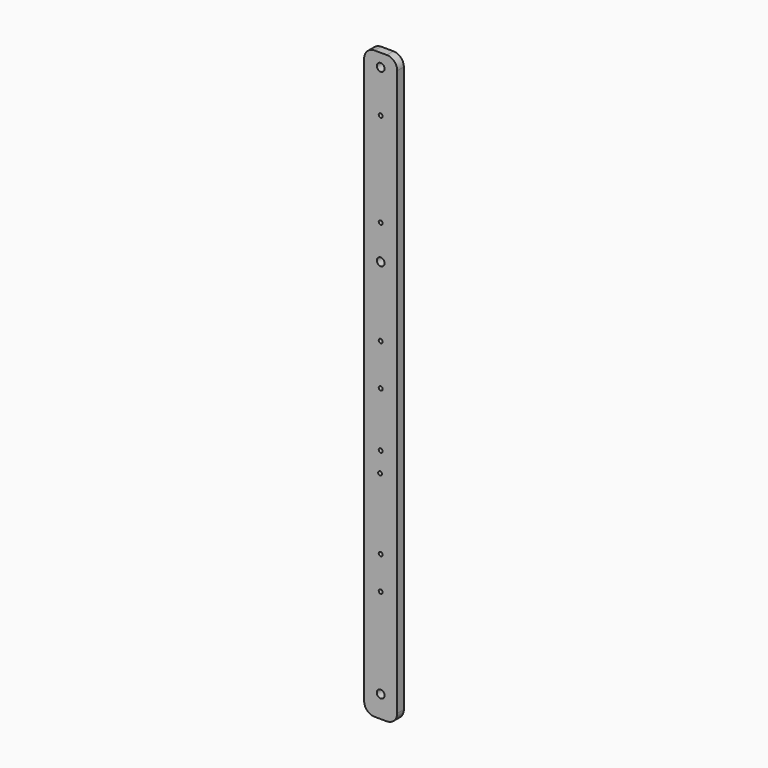
from build123d import *

# Parameters (mm, degrees)
F0_R     = 3
F0_R_2   = 1.5
F1_DEPTH = 6.35


with BuildPart() as f1:
    # F0 (on Front) → F1 (new body)
    with BuildSketch(Plane.XZ):
        with BuildLine():
            ThreePointArc((-12.7, -188.950539), (-10.352556, -194.61777), (-4.685325, -196.965214))
            Line((-4.685325, -196.965214), (4.685325, -196.965214))
            ThreePointArc((4.685325, -196.965214), (10.352556, -194.61777), (12.7, -188.950539))
            Line((12.7, -188.950539), (12.7, 245.383261))
            ThreePointArc((12.7, 245.383261), (10.352556, 251.050492), (4.685325, 253.397937))
            Line((4.685325, 253.397937), (0, 253.397937))
            Line((0, 253.397937), (-4.685325, 253.397937))
            ThreePointArc((-4.685325, 253.397937), (-10.352556, 251.050492), (-12.7, 245.383261))
            Line((-12.7, 245.383261), (-12.7, -188.950539))
        make_face()
        with Locations((0, -180.083141)):
            Circle(F0_R, mode=Mode.SUBTRACT)
        with Locations((0, -110.852026)):
            Circle(F0_R_2, mode=Mode.SUBTRACT)
        with Locations((0, -85.452026)):
            Circle(F0_R_2, mode=Mode.SUBTRACT)
        with Locations((-0.438477, -31.045226)):
            Circle(F0_R_2, mode=Mode.SUBTRACT)
        with Locations((0, -15.452026)):
            Circle(F0_R_2, mode=Mode.SUBTRACT)
        with Locations((0, 26.554786)):
            Circle(F0_R_2, mode=Mode.SUBTRACT)
        with BuildLine():
            ThreePointArc((1.5, 58.558786), (-1.06066, 57.498125), (0, 60.058786))
            ThreePointArc((0, 60.058786), (1.06066, 59.619446), (1.5, 58.558786))
        make_face(mode=Mode.SUBTRACT)
        with BuildLine():
            ThreePointArc((0, 109.087622), (-3, 112.087622), (0, 115.087622))
            ThreePointArc((0, 115.087622), (2.12132, 114.208943), (3, 112.087622))
            ThreePointArc((3, 112.087622), (2.12132, 109.966302), (0, 109.087622))
        make_face(mode=Mode.SUBTRACT)
        with BuildLine():
            ThreePointArc((0, 137.061597), (-1.5, 138.561597), (0, 140.061597))
            ThreePointArc((0, 140.061597), (1.06066, 139.622258), (1.5, 138.561597))
            ThreePointArc((1.5, 138.561597), (1.06066, 137.500937), (0, 137.061597))
        make_face(mode=Mode.SUBTRACT)
        with BuildLine():
            ThreePointArc((0, 209.458786), (-1.5, 210.958786), (0, 212.458786))
            ThreePointArc((0, 212.458786), (1.06066, 212.019446), (1.5, 210.958786))
            ThreePointArc((1.5, 210.958786), (1.06066, 209.898125), (0, 209.458786))
        make_face(mode=Mode.SUBTRACT)
        with BuildLine():
            ThreePointArc((0, 240.519919), (-3, 243.519919), (0, 246.519919))
            ThreePointArc((0, 246.519919), (2.12132, 245.64124), (3, 243.519919))
            ThreePointArc((3, 243.519919), (2.12132, 241.398599), (0, 240.519919))
        make_face(mode=Mode.SUBTRACT)
    extrude(amount=F1_DEPTH)


solid = f1.part
